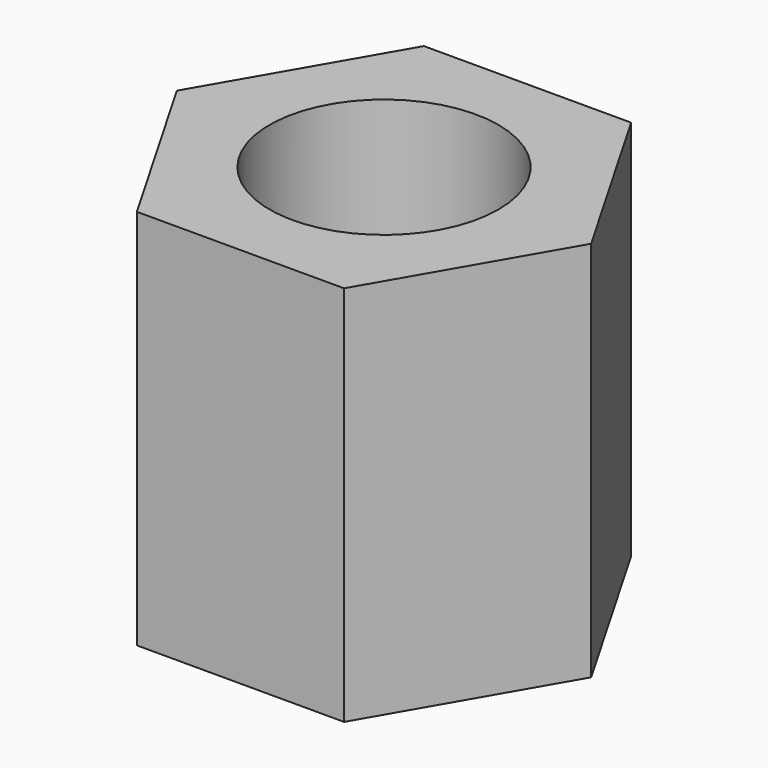
from build123d import *

# Parameters (mm, degrees)
SKETCH_R  = 1.5
PAD_DEPTH = 5


with BuildPart() as part:
    # Sketch → Pad (new body)
    with BuildSketch(Plane.XY):
        Polygon((1.356773, -2.35), (2.713546, 0), (1.356773, 2.35), (-1.356773, 2.35), (-2.713546, 0), (-1.356773, -2.35), align=None)
        Circle(SKETCH_R, mode=Mode.SUBTRACT)
    extrude(amount=PAD_DEPTH)


solid = part.part
